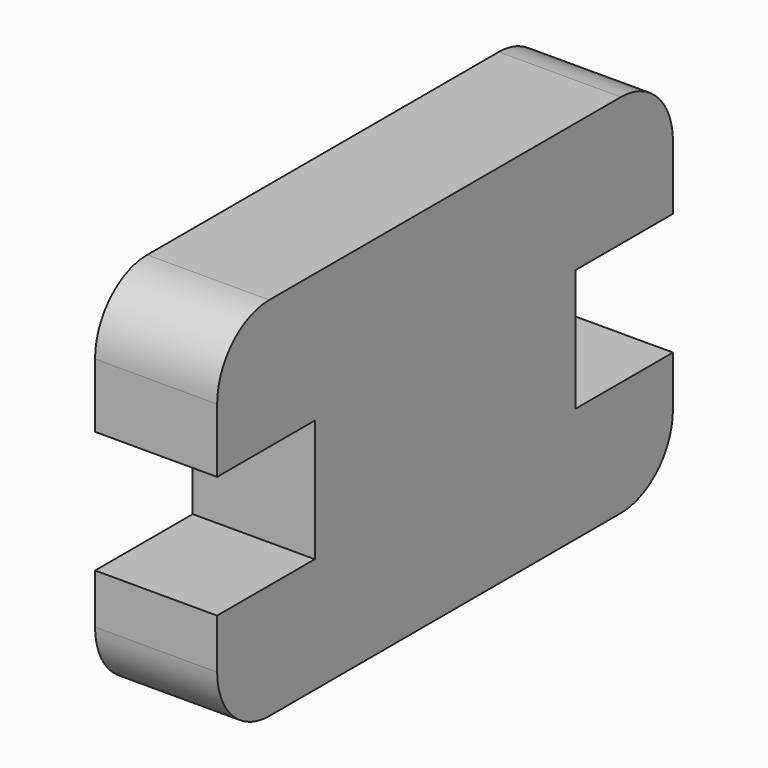
from build123d import *

# Parameters (mm, degrees)
F1_DEPTH = 15


with BuildPart() as f1:
    # F0 (on Right) → F1 (new body)
    with BuildSketch(Plane.YZ):
        with BuildLine():
            ThreePointArc((35, 14.5), (32.656854, 20.156854), (27, 22.5))
            Line((27, 22.5), (-27, 22.5))
            ThreePointArc((-27, 22.5), (-32.656854, 20.156854), (-35, 14.5))
            Line((-35, 14.5), (-35, 6.617025))
            Line((-35, 6.617025), (-20, 6.617025))
            Line((-20, 6.617025), (-20, -8.382975))
            Line((-20, -8.382975), (-35, -8.382975))
            Line((-35, -8.382975), (-35, -14.5))
            ThreePointArc((-35, -14.5), (-32.656854, -20.156854), (-27, -22.5))
            Line((-27, -22.5), (27, -22.5))
            ThreePointArc((27, -22.5), (32.656854, -20.156854), (35, -14.5))
            Line((35, -14.5), (35, -8.382975))
            Line((35, -8.382975), (20, -8.382975))
            Line((20, -8.382975), (20, 6.617025))
            Line((20, 6.617025), (35, 6.617025))
            Line((35, 6.617025), (35, 14.5))
        make_face()
    extrude(amount=F1_DEPTH)


solid = f1.part
